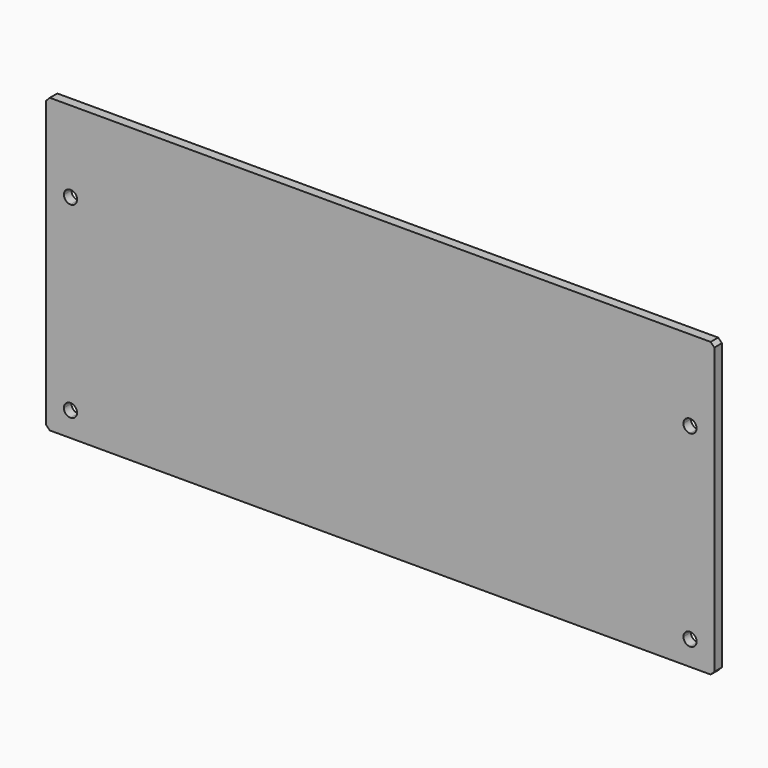
from build123d import *

# Parameters (mm, degrees)
F1_DEPTH = 5


with BuildPart() as f1:
    # F0 (on Front) → F1 (new body)
    with BuildSketch(Plane.XZ):
        Polygon((468.291321, -107.901509), (116.291321, -107.901509), (114.291321, -109.901509), (114.291321, -261.901509), (116.291321, -263.901509), (468.291321, -263.901509), (470.291321, -261.901509), (470.291321, -109.901509), align=None)
        with BuildLine():
            ThreePointArc((127.291321, -247.401509), (129.766195, -248.426635), (130.791321, -250.901509))
            ThreePointArc((130.791321, -250.901509), (129.766195, -253.376383), (127.291321, -254.401509))
            ThreePointArc((127.291321, -254.401509), (124.816447, -253.376383), (123.791321, -250.901509))
            ThreePointArc((123.791321, -250.901509), (124.816447, -248.426635), (127.291321, -247.401509))
        make_face(mode=Mode.SUBTRACT)
        with BuildLine():
            ThreePointArc((457.291321, -247.401509), (459.766195, -248.426635), (460.791321, -250.901509))
            ThreePointArc((460.791321, -250.901509), (459.766195, -253.376383), (457.291321, -254.401509))
            ThreePointArc((457.291321, -254.401509), (454.816447, -253.376383), (453.791321, -250.901509))
            ThreePointArc((453.791321, -250.901509), (454.816447, -248.426635), (457.291321, -247.401509))
        make_face(mode=Mode.SUBTRACT)
        with BuildLine():
            ThreePointArc((127.291321, -147.401509), (129.766195, -148.426635), (130.791321, -150.901509))
            ThreePointArc((130.791321, -150.901509), (129.766195, -153.376383), (127.291321, -154.401509))
            ThreePointArc((127.291321, -154.401509), (124.816447, -153.376383), (123.791321, -150.901509))
            ThreePointArc((123.791321, -150.901509), (124.816447, -148.426635), (127.291321, -147.401509))
        make_face(mode=Mode.SUBTRACT)
        with BuildLine():
            ThreePointArc((457.291321, -147.401509), (459.766195, -148.426635), (460.791321, -150.901509))
            ThreePointArc((460.791321, -150.901509), (459.766195, -153.376383), (457.291321, -154.401509))
            ThreePointArc((457.291321, -154.401509), (454.816447, -153.376383), (453.791321, -150.901509))
            ThreePointArc((453.791321, -150.901509), (454.816447, -148.426635), (457.291321, -147.401509))
        make_face(mode=Mode.SUBTRACT)
    extrude(amount=-F1_DEPTH)


solid = f1.part
